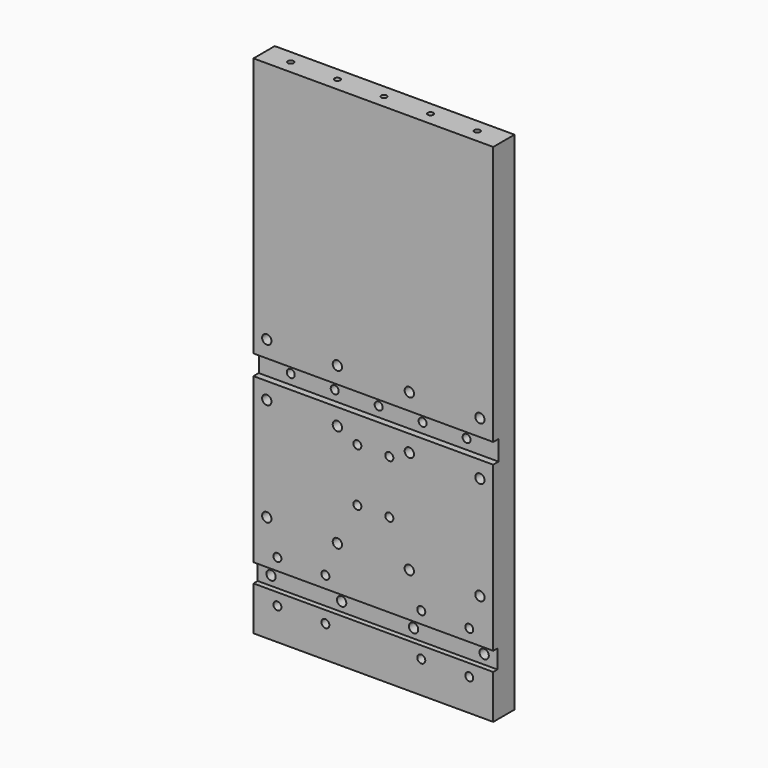
from build123d import *

# Parameters (mm, degrees)
F1_DEPTH        = 170
F2_DEPTH        = 20
F4_D            = 7
F6_D            = 6
F6_CSINK_D      = 11.2
F6_CSINK_ANGLE  = 90
F7_DEPTH        = 5
F8_DEPTH        = 5
F9_DEPTH        = 20
F10_D           = 7
F12_D           = 6
F12_CBORE_D     = 8.25
F12_CBORE_DEPTH = 5
F14_D           = 6
F16_D           = 4.2
F16_DEPTH       = 23.4
F16_TIP         = 1.2618073
F17_W           = 180
F17_H           = 14
F17_R           = 3.5
F18_DEPTH       = 4


with BuildPart() as f1:
    # F0 (on Right) → F1 (new body)
    with BuildSketch(Plane.YZ):
        Polygon((0, 170), (0, 0), (20, 0), (20, 400), (0, 400), (0, 185), (5, 185), (5, 170), align=None)
    extrude(amount=F1_DEPTH)

    # F2 (cut): a face of the model
    f2_faces = [f1.faces().sort_by_distance(p)[0] for p in [
        (85, 10, 400),
    ]]
    extrude(f2_faces, amount=-F2_DEPTH, mode=Mode.SUBTRACT)

    # F4 (through all)
    with Locations(Plane(origin=(0, 20, 0), x_dir=(-1, 0, 0), z_dir=(0, 1, 0))):
        with Locations((-165, 197.5), (-165, 157.5), (-5, 197.5), (-5, 157.5), (-112, 197.5), (-112, 157.5), (-58, 157.5), (-58, 197.5)):
            Hole(F4_D / 2)

    # F6 (through all)
    with Locations(Plane(origin=(0, 20, 0), x_dir=(-1, 0, 0), z_dir=(0, 1, 0))):
        with Locations((-151, 177.5), (-118, 177.5), (-85, 177.5), (-52, 177.5), (-19, 177.5)):
            CounterSinkHole(F6_D / 2, F6_CSINK_D / 2, counter_sink_angle=F6_CSINK_ANGLE)

    # F0 (on Right) → F7 (join)
    with BuildSketch(Plane.YZ):
        Polygon((0, 170), (0, 0), (20, 0), (20, 400), (0, 400), (0, 185), (5, 185), (5, 170), align=None)
    extrude(amount=-F7_DEPTH)

    # F8 (add): a face of the model
    f8_faces = [f1.faces().sort_by_distance(p)[0] for p in [
        (170, 10.0747508306, 190.1245847176),
    ]]
    extrude(f8_faces, amount=F8_DEPTH)

    # F9 (cut): a face of the model
    f9_faces = [f1.faces().sort_by_distance(p)[0] for p in [
        (-2.5, 10, 400),
    ]]
    extrude(f9_faces, amount=-F9_DEPTH, mode=Mode.SUBTRACT)

    # F10 (through all)
    with Locations(Plane(origin=(0, 20, 0), x_dir=(-1, 0, 0), z_dir=(0, 1, 0))):
        with Locations((-165, 80), (-165, 40), (-112, 80), (-112, 40), (-58, 40), (-5, 80), (-58, 80), (-5, 40)):
            Hole(F10_D / 2)

    # F12 (through all)
    with Locations(Plane(origin=(0, 20, 0), x_dir=(-1, 0, 0), z_dir=(0, 1, 0))):
        with Locations((-157, 56), (-157, 24), (-121, 56), (-121, 24), (-49, 56), (-49, 24), (-13, 24), (-13, 56)):
            CounterBoreHole(F12_D / 2, F12_CBORE_D / 2, F12_CBORE_DEPTH)

    # F14 (through all)
    with Locations(Plane(origin=(0, 20, 0), x_dir=(-1, 0, 0), z_dir=(0, 1, 0))):
        with Locations((-97, 150), (-97, 110), (-73, 110), (-73, 150)):
            Hole(F14_D / 2)

    # F16
    with Locations(Plane.XY.offset(380)):
        with Locations((15, 10), (50, 10), (85, 10), (120, 10), (155, 10)):
            Hole(F16_D / 2, depth=F16_DEPTH)
            with Locations((0, 0, -(F16_DEPTH + F16_TIP / 2))):  # 118° drill point
                Cone(0, F16_D / 2, F16_TIP, mode=Mode.SUBTRACT)

    # F17 (on face) → F18 (cut)
    with BuildSketch(Plane.XZ):
        with Locations((85, 40)):
            Rectangle(F17_W, F17_H)
        with Locations((5, 40)):
            Circle(F17_R, mode=Mode.SUBTRACT)
        with Locations((58, 40)):
            Circle(F17_R, mode=Mode.SUBTRACT)
        with Locations((112, 40)):
            Circle(F17_R, mode=Mode.SUBTRACT)
        with Locations((165, 40)):
            Circle(F17_R, mode=Mode.SUBTRACT)
    extrude(amount=-F18_DEPTH, mode=Mode.SUBTRACT)


solid = f1.part
